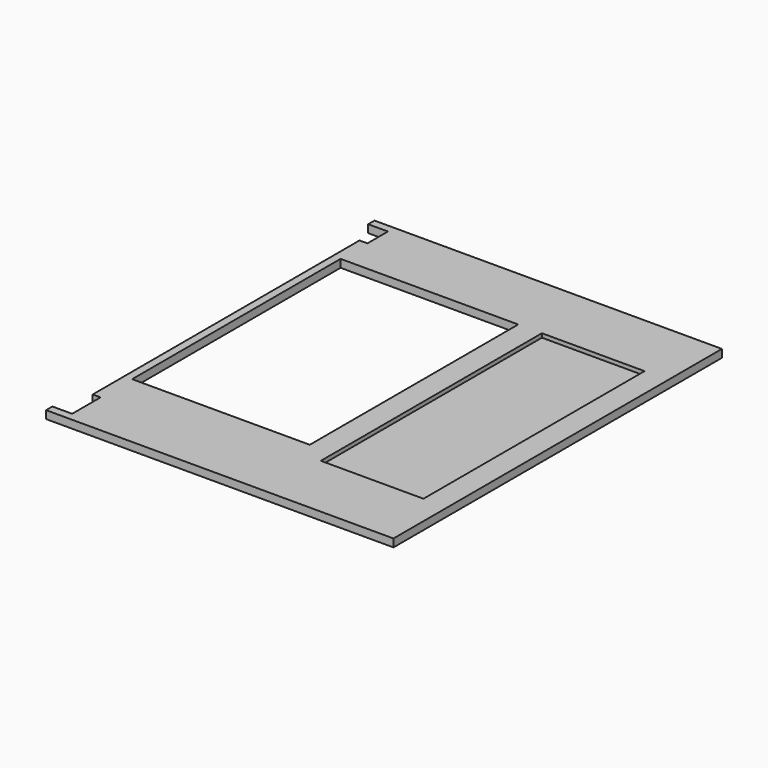
from build123d import *

# Parameters (mm, degrees)
SKETCH093_W      = 26
SKETCH093_H      = 70
EXTRUDE081_DEPTH = 1
SKETCH_W         = 45
SKETCH_H         = 66
EXTRUDE_DEPTH    = 2


with BuildPart() as extrude081:
    # Sketch093 → Extrude081 (new body, symmetric)
    with BuildSketch(Plane.XY.offset(-22)):
        with Locations((62, 50)):
            Rectangle(SKETCH093_W, SKETCH093_H)
    extrude(amount=EXTRUDE081_DEPTH, both=True)


with BuildPart() as cut012:
    # Sketch → Extrude (new body)
    with BuildSketch(Plane(origin=(0, 0, -22), x_dir=(1, 0, 0), z_dir=(0, 0, -1))):
        Polygon((-7, 2), (81, 2), (81, -102), (-7, -102), (-7, -100), (-2, -100), (-2, -93.5), (-4, -93.5), (-4, -9), (-2, -9), (-2, 0), (-7, 0), align=None)
        with Locations((20.5, -52)):
            Rectangle(SKETCH_W, SKETCH_H, mode=Mode.SUBTRACT)
    extrude(amount=EXTRUDE_DEPTH)

    # Cut012: cut Extrude081
    add(extrude081.part, mode=Mode.SUBTRACT)


solid = cut012.part
